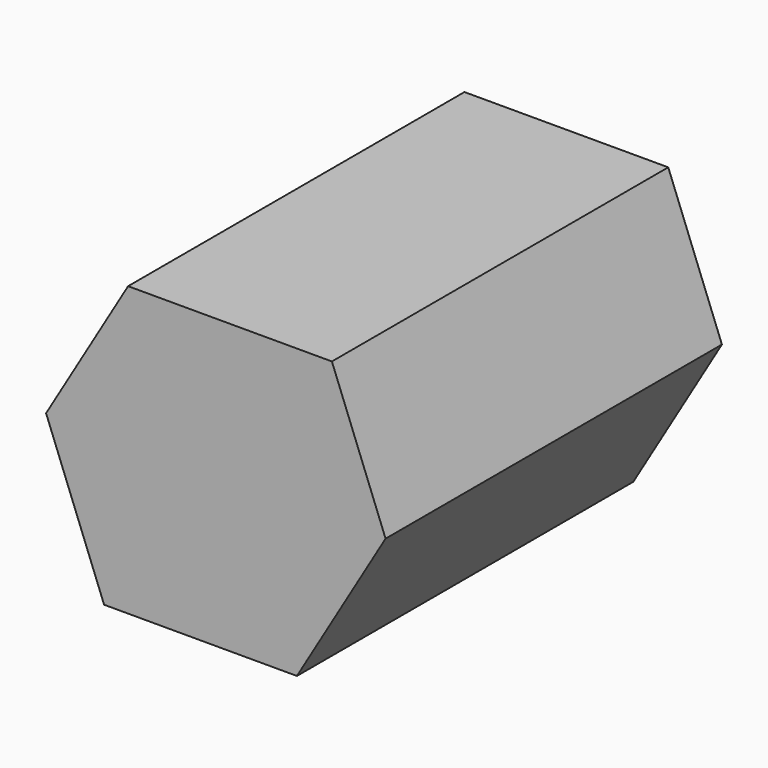
from build123d import *

# Parameters (mm, degrees)
F1_DEPTH = 38.1
F2_SIZE  = 8.763


with BuildPart() as f1:
    # F0 (on Front) → F1 (new body)
    with BuildSketch(Plane.XZ):
        Polygon((-6.977107, 9.66563), (-12.7, 0), (-8.651809, -10.447565), (4.802615, -10.447565), (10.988482, 0), (7.243273, 9.66563), align=None)
    extrude(amount=F1_DEPTH)

    # F2
    f2_edges = [f1.edges().sort_by_distance(p)[0] for p in [
        (0.133083, 0, 9.66563),
        (-9.838553, 0, 4.832815),
        (-10.675905, 0, -5.223783),
        (-1.924597, 0, -10.447565),
        (7.895549, 0, -5.223783),
        (9.115878, 0, 4.832815),
    ]]
    chamfer(f2_edges, length=F2_SIZE)


solid = f1.part
